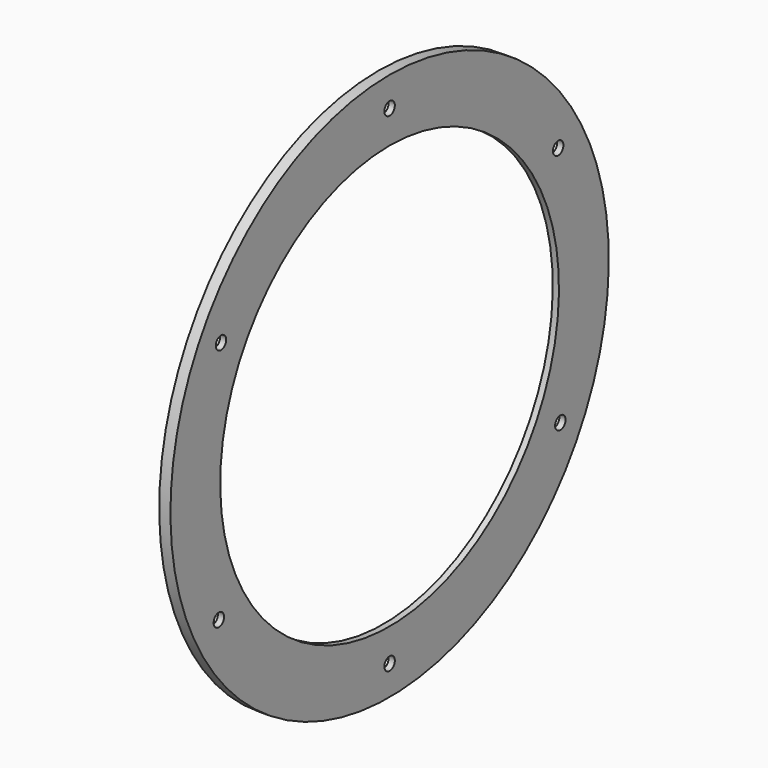
from build123d import *

# Parameters (mm, degrees)
F2_DEPTH = 0.7
F3_DEPTH = 0.35
F5_D     = 4.2
F6_DEPTH = 1.25
F7_DEPTH = 30


with BuildPart() as f1:
    # F0 (on Front) → F1 (revolve)
    with BuildSketch(Plane.XZ):
        Polygon((-16, 84), (-16, 68), (16, 68), (16, 84), (16.35, 84), (16.35, 88), (-16.35, 88), (-16.35, 84), align=None)
    revolve(axis=Axis((-7.2666932824, 0, 0), (1, 0, 0)))

    # F2 (cut): a face of the model
    f2_faces = [f1.faces().sort_by_distance(p)[0] for p in [
        (16.35, 0, -86.4890158698),
    ]]
    extrude(f2_faces, amount=-F2_DEPTH, mode=Mode.SUBTRACT)

    # F3 (add): a face of the model
    f3_faces = [f1.faces().sort_by_distance(p)[0] for p in [
        (15.65, 0, -86.4890158698),
    ]]
    extrude(f3_faces, amount=F3_DEPTH)

    # F5 (through all)
    with Locations(Plane.YZ.offset(16)):
        with Locations((-67.6927920079, 39.7484076433), (0, 78.5), (67.6927920079, 39.7484076433), (68.5497314523, -38.2515923567), (0, -78.5), (-68.5497314523, -38.2515923567)):
            Hole(F5_D / 2)

    # F6 (add): a face of the model
    f6_faces = [f1.faces().sort_by_distance(p)[0] for p in [
        (-16.35, 0, -85.5109841302),
    ]]
    extrude(f6_faces, amount=F6_DEPTH)

    # F7 (cut): a face of the model
    f7_faces = [f1.faces().sort_by_distance(p)[0] for p in [
        (16, 0, -85.5109841302),
    ]]
    extrude(f7_faces, amount=-F7_DEPTH, mode=Mode.SUBTRACT)


solid = f1.part
